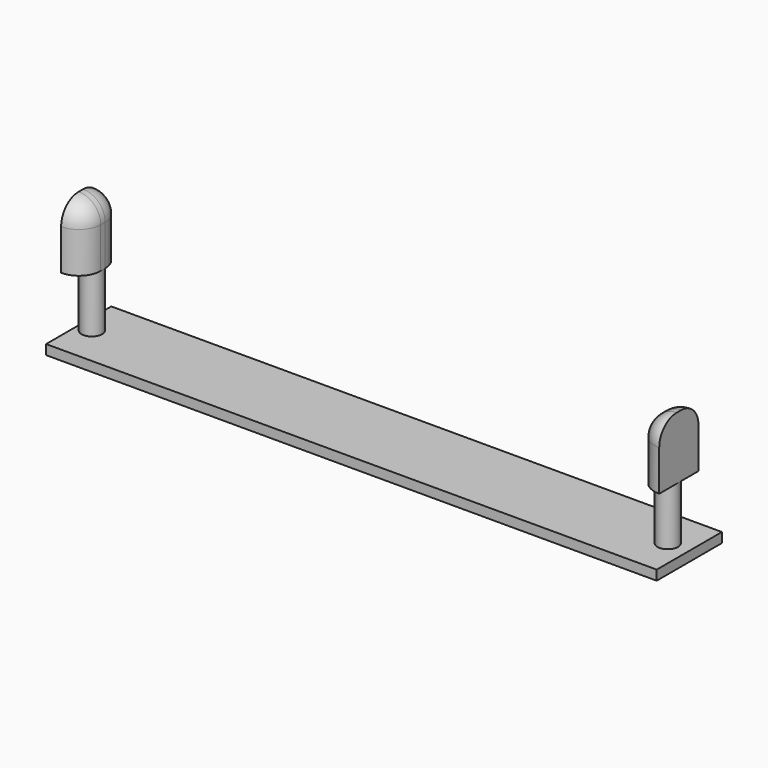
from build123d import *

# Parameters (mm, degrees)
F0_W     = 570.8396
F0_H     = 76.2
F1_DEPTH = 9.144
F2_R     = 9.651965
F3_DEPTH = 53.34
F4_W     = 20.748643
F4_H     = 45.828542
F5_DEPTH = 58.42
F6_R     = 20.32
F7_R     = 20.32


with BuildPart() as f1:
    # F0 (on Top) → F1 (new body)
    with BuildSketch(Plane.XY):
        with Locations((3.614875, 7.573666)):
            Rectangle(F0_W, F0_H)
    extrude(amount=F1_DEPTH)

    # F2 (on face) → F3 (join)
    with BuildSketch(Plane.XY.offset(9.144)):
        with Locations((-269.181566, 7.172334)):
            Circle(F2_R)
        with Locations((269.181566, 7.172334)):
            Circle(F2_R)
    extrude(amount=F3_DEPTH)

    # F4 (on face) → F5 (join)
    with BuildSketch(Plane.XY.offset(62.484)):
        with Locations((-269.181565, 7.172334)):
            Rectangle(F4_W, F4_H)
        with Locations((269.181565, 7.172334)):
            Rectangle(F4_W, F4_H)
    extrude(amount=F5_DEPTH)

    # F6
    f6_edges = [f1.edges().sort_by_distance(p)[0] for p in [
        (-269.181566, -15.741937, 120.904),
        (-258.807244, 7.172334, 120.904),
        (-269.181566, 30.086605, 120.904),
        (-258.807244, -15.741937, 91.694),
        (-258.807244, 30.086605, 91.694),
    ]]
    fillet(f6_edges, radius=F6_R)

    # F7
    f7_edges = [f1.edges().sort_by_distance(p)[0] for p in [
        (258.807244, 7.172334, 120.904),
        (258.807244, 30.086605, 91.694),
        (258.807244, -15.741937, 91.694),
        (269.181566, -15.741937, 120.904),
        (269.181566, 30.086605, 120.904),
    ]]
    fillet(f7_edges, radius=F7_R)


solid = f1.part
